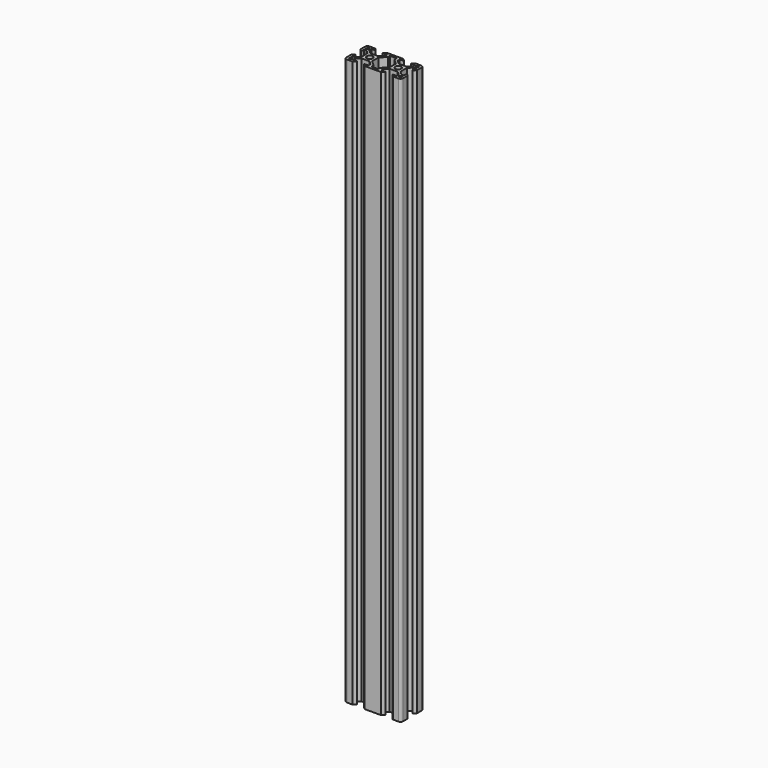
from build123d import *

# Parameters (mm, degrees)
F1_DEPTH = 400


with BuildPart() as f1:
    # F0 (on Top) → F1 (new body)
    with BuildSketch(Plane.XY):
        with BuildLine():
            ThreePointArc((-43.014015, 11.811976), (-44.286807, 11.284768), (-44.814015, 10.011976))
            Line((-44.814015, 10.011976), (-44.814015, 6.001976))
            Line((-44.814015, 6.001976), (-43.014015, 4.201976))
            Line((-43.014015, 4.201976), (-43.014015, 7.041976))
            Line((-43.014015, 7.041976), (-41.294215, 7.041976))
            Line((-41.294215, 7.041976), (-38.746832, 4.651976))
            Line((-38.746832, 4.651976), (-38.746832, 1.811976))
            Line((-38.746832, 1.811976), (-38.746832, -1.028024))
            Line((-38.746832, -1.028024), (-41.294215, -3.418024))
            Line((-41.294215, -3.418024), (-43.014015, -3.418024))
            Line((-43.014015, -3.418024), (-43.014015, -0.578024))
            Line((-43.014015, -0.578024), (-44.814015, -2.378024))
            Line((-44.814015, -2.378024), (-44.814015, -6.388024))
            ThreePointArc((-44.814015, -6.388024), (-44.286807, -7.660816), (-43.014015, -8.188024))
            Line((-43.014015, -8.188024), (-39.004015, -8.188024))
            Line((-39.004015, -8.188024), (-37.204015, -6.388024))
            Line((-37.204015, -6.388024), (-40.304332, -6.388024))
            Line((-40.304332, -6.388024), (-40.304332, -4.488024))
            Line((-40.304332, -4.488024), (-37.652902, -2.120841))
            Line((-37.652902, -2.120841), (-34.814015, -2.120841))
            Line((-34.814015, -2.120841), (-31.975129, -2.120841))
            Line((-31.975129, -2.120841), (-29.323698, -4.488024))
            Line((-29.323698, -4.488024), (-29.323698, -6.388024))
            Line((-29.323698, -6.388024), (-32.424015, -6.388024))
            Line((-32.424015, -6.388024), (-30.624015, -8.188024))
            Line((-30.624015, -8.188024), (-26.614015, -8.188024))
            Line((-26.614015, -8.188024), (-23.014015, -8.188024))
            Line((-23.014015, -8.188024), (-19.004015, -8.188024))
            Line((-19.004015, -8.188024), (-17.204015, -6.388024))
            Line((-17.204015, -6.388024), (-20.304332, -6.388024))
            Line((-20.304332, -6.388024), (-20.304332, -4.488024))
            Line((-20.304332, -4.488024), (-17.652902, -2.120841))
            Line((-17.652902, -2.120841), (-14.814015, -2.120841))
            Line((-14.814015, -2.120841), (-11.975129, -2.120841))
            Line((-11.975129, -2.120841), (-9.323698, -4.488024))
            Line((-9.323698, -4.488024), (-9.323698, -6.388024))
            Line((-9.323698, -6.388024), (-12.424015, -6.388024))
            Line((-12.424015, -6.388024), (-10.624015, -8.188024))
            Line((-10.624015, -8.188024), (-6.614015, -8.188024))
            ThreePointArc((-6.614015, -8.188024), (-5.341223, -7.660816), (-4.814015, -6.388024))
            Line((-4.814015, -6.388024), (-4.814015, -2.378024))
            Line((-4.814015, -2.378024), (-6.614015, -0.578024))
            Line((-6.614015, -0.578024), (-6.614015, -3.418024))
            Line((-6.614015, -3.418024), (-8.333815, -3.418024))
            Line((-8.333815, -3.418024), (-10.881198, -1.028024))
            Line((-10.881198, -1.028024), (-10.881198, 1.811976))
            Line((-10.881198, 1.811976), (-10.881198, 4.651976))
            Line((-10.881198, 4.651976), (-8.333815, 7.041976))
            Line((-8.333815, 7.041976), (-6.614015, 7.041976))
            Line((-6.614015, 7.041976), (-6.614015, 4.201976))
            Line((-6.614015, 4.201976), (-4.814015, 6.001976))
            Line((-4.814015, 6.001976), (-4.814015, 10.011976))
            ThreePointArc((-4.814015, 10.011976), (-5.341223, 11.284768), (-6.614015, 11.811976))
            Line((-6.614015, 11.811976), (-10.624015, 11.811976))
            Line((-10.624015, 11.811976), (-12.424015, 10.011976))
            Line((-12.424015, 10.011976), (-9.323698, 10.011976))
            Line((-9.323698, 10.011976), (-9.323698, 8.111976))
            Line((-9.323698, 8.111976), (-11.975129, 5.744793))
            Line((-11.975129, 5.744793), (-14.814015, 5.744793))
            Line((-14.814015, 5.744793), (-17.652902, 5.744793))
            Line((-17.652902, 5.744793), (-20.304332, 8.111976))
            Line((-20.304332, 8.111976), (-20.304332, 10.011976))
            Line((-20.304332, 10.011976), (-17.204015, 10.011976))
            Line((-17.204015, 10.011976), (-19.004015, 11.811976))
            Line((-19.004015, 11.811976), (-23.014015, 11.811976))
            Line((-23.014015, 11.811976), (-26.614015, 11.811976))
            Line((-26.614015, 11.811976), (-30.624015, 11.811976))
            Line((-30.624015, 11.811976), (-32.424015, 10.011976))
            Line((-32.424015, 10.011976), (-29.323698, 10.011976))
            Line((-29.323698, 10.011976), (-29.323698, 8.111976))
            Line((-29.323698, 8.111976), (-31.975129, 5.744793))
            Line((-31.975129, 5.744793), (-34.814015, 5.744793))
            Line((-34.814015, 5.744793), (-37.652902, 5.744793))
            Line((-37.652902, 5.744793), (-40.304332, 8.111976))
            Line((-40.304332, 8.111976), (-40.304332, 10.011976))
            Line((-40.304332, 10.011976), (-37.204015, 10.011976))
            Line((-37.204015, 10.011976), (-39.004015, 11.811976))
            Line((-39.004015, 11.811976), (-43.014015, 11.811976))
        make_face()
        Polygon((-43.014015, -4.488024), (-42.434675, -4.488024), (-41.374332, -5.443314), (-41.374332, -6.388024), (-43.014015, -6.388024), align=None, mode=Mode.SUBTRACT)
        Polygon((-6.614015, -6.388024), (-8.253698, -6.388024), (-8.253698, -5.443314), (-7.193355, -4.488024), (-6.614015, -4.488024), align=None, mode=Mode.SUBTRACT)
        with BuildLine():
            ThreePointArc((-36.914015, 1.811976), (-36.298939, 3.2969), (-34.814015, 3.911976))
            ThreePointArc((-34.814015, 3.911976), (-33.329091, 3.2969), (-32.714015, 1.811976))
            ThreePointArc((-32.714015, 1.811976), (-33.329091, 0.327052), (-34.814015, -0.288024))
            ThreePointArc((-34.814015, -0.288024), (-36.298939, 0.327052), (-36.914015, 1.811976))
        make_face(mode=Mode.SUBTRACT)
        Polygon((-30.881198, 1.811976), (-30.881198, 4.651976), (-27.193355, 8.111976), (-27.193355, 10.011976), (-22.434675, 10.011976), (-22.434675, 8.111976), (-18.746832, 4.651976), (-18.746832, 1.811976), (-18.746832, -1.028024), (-22.434675, -4.488024), (-22.434675, -6.388024), (-27.193355, -6.388024), (-27.193355, -4.488024), (-30.881198, -1.028024), align=None, mode=Mode.SUBTRACT)
        Polygon((-43.014015, 8.111976), (-43.014015, 10.011976), (-41.374332, 10.011976), (-41.374332, 9.067266), (-42.434675, 8.111976), align=None, mode=Mode.SUBTRACT)
        with BuildLine():
            ThreePointArc((-16.914015, 1.811976), (-16.298939, 3.2969), (-14.814015, 3.911976))
            ThreePointArc((-14.814015, 3.911976), (-13.329091, 3.2969), (-12.714015, 1.811976))
            ThreePointArc((-12.714015, 1.811976), (-13.329091, 0.327052), (-14.814015, -0.288024))
            ThreePointArc((-14.814015, -0.288024), (-16.298939, 0.327052), (-16.914015, 1.811976))
        make_face(mode=Mode.SUBTRACT)
        Polygon((-8.253698, 9.067266), (-8.253698, 10.011976), (-6.614015, 10.011976), (-6.614015, 8.111976), (-7.193355, 8.111976), align=None, mode=Mode.SUBTRACT)
    extrude(amount=F1_DEPTH)


solid = f1.part
